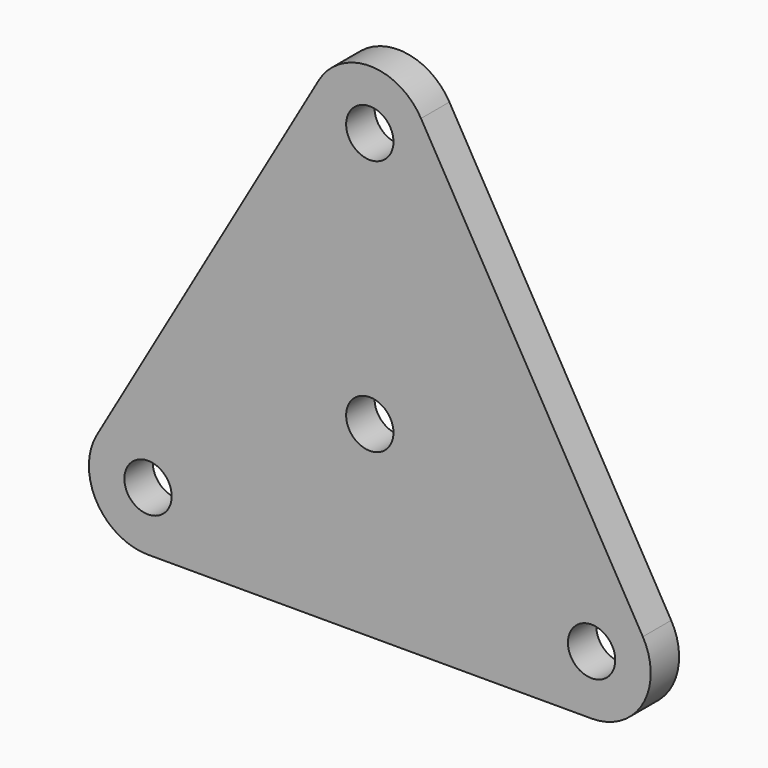
from build123d import *

# Parameters (mm, degrees)
SKETCH_R  = 4
PAD_DEPTH = 6


with BuildPart() as part:
    # Sketch → Pad (new body)
    with BuildSketch(Plane.XZ):
        with BuildLine():
            Line((46.160259, -16.650643), (8.660317, 48.301296))
            ThreePointArc((8.660317, 48.301296), (0, 53.301337), (-8.660316, 48.301296))
            Line((-8.660316, 48.301296), (-46.160259, -16.650643))
            ThreePointArc((-46.160259, -16.650643), (-46.160252, -26.650639), (-37.5, -31.650635))
            Line((-37.5, -31.650635), (37.5, -31.650635))
            ThreePointArc((37.5, -31.650635), (46.160252, -26.650639), (46.160259, -16.650643))
        make_face()
        with Locations((0, 43.30127)):
            Circle(SKETCH_R, mode=Mode.SUBTRACT)
        with Locations((37.5, -21.650635)):
            Circle(SKETCH_R, mode=Mode.SUBTRACT)
        with Locations((-37.5, -21.650635)):
            Circle(SKETCH_R, mode=Mode.SUBTRACT)
        Circle(SKETCH_R, mode=Mode.SUBTRACT)
    extrude(amount=PAD_DEPTH)


solid = part.part
